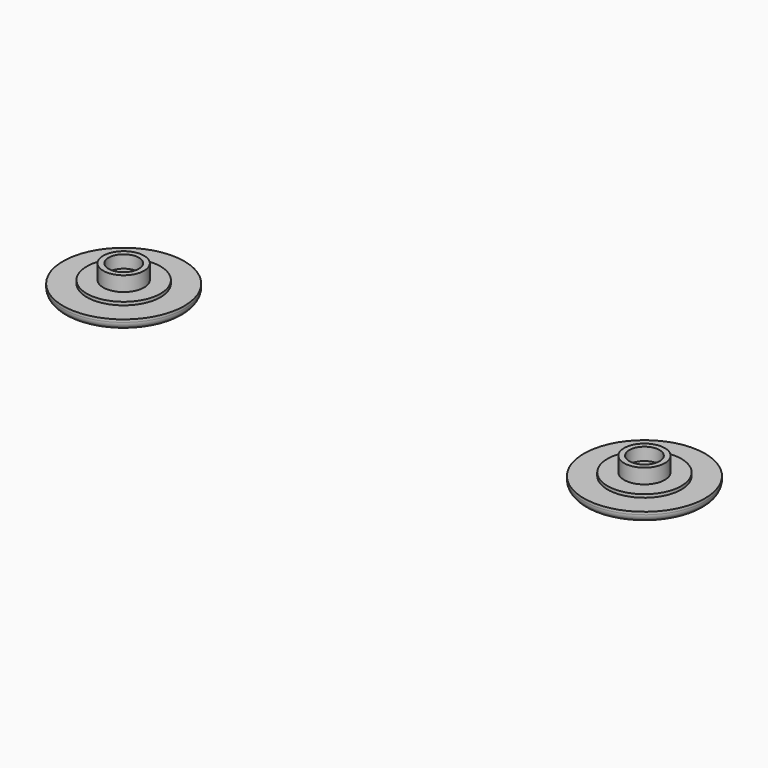
from build123d import *

# Parameters (mm, degrees)
F0_R     = 3.875
F1_DEPTH = 3.4
F0_R_2   = 7
F2_DEPTH = 0.6
F0_R_3   = 11.5
F3_DEPTH = 2
F4_T     = -1
F4_2_T   = -1
F5_R     = 1.5
F5_2_R   = 1.5


with BuildPart() as f1:
    # F0 (on Top) → F1 (new body)
    with BuildSketch(Plane.XY):
        with Locations((-49.4117662311, 0)):
            Circle(F0_R)
    extrude(amount=F1_DEPTH)

    # F4
    f4_openings = [f1.faces().sort_by_distance(p)[0] for p in [
        (-49.411766, 0, 3.4),
    ]]
    offset(amount=F4_T, openings=f4_openings)


with BuildPart() as f1b:
    # F0 (on Top) → F1, piece 2 (new body)
    with BuildSketch(Plane.XY):
        with Locations((49.4117662311, 0)):
            Circle(F0_R)
    extrude(amount=F1_DEPTH)

    # F4#2
    f4_2_openings = [f1b.faces().sort_by_distance(p)[0] for p in [
        (49.411766, 0, 3.4),
    ]]
    offset(amount=F4_2_T, openings=f4_2_openings)


with BuildPart() as f2:
    # F0 (on Top) → F2 (new body)
    with BuildSketch(Plane.XY):
        with Locations((-49.4117662311, 0)):
            Circle(F0_R_2)
        with Locations((-49.4117662311, 0)):
            Circle(F0_R, mode=Mode.SUBTRACT)
    extrude(amount=F2_DEPTH)


with BuildPart() as f2b:
    # F0 (on Top) → F2, piece 2 (new body)
    with BuildSketch(Plane.XY):
        with Locations((49.4117662311, 0)):
            Circle(F0_R_2)
        with Locations((49.4117662311, 0)):
            Circle(F0_R, mode=Mode.SUBTRACT)
    extrude(amount=F2_DEPTH)


with BuildPart() as f3:
    # F0 (on Top) → F3 (new body)
    with BuildSketch(Plane.XY):
        with Locations((-49.4117662311, 0)):
            Circle(F0_R_3)
        with Locations((-49.4117662311, 0)):
            Circle(F0_R_2, mode=Mode.SUBTRACT)
        with Locations((-49.4117662311, 0)):
            Circle(F0_R_2)
        with Locations((-49.4117662311, 0)):
            Circle(F0_R, mode=Mode.SUBTRACT)
        with Locations((-49.4117662311, 0)):
            Circle(F0_R)
    extrude(amount=-F3_DEPTH)

    # F5#2
    f5_2_edges = [f3.edges().sort_by_distance(p)[0] for p in [
        (-60.911766, 0, -2),
    ]]
    fillet(f5_2_edges, radius=F5_2_R)


with BuildPart() as f3b:
    # F0 (on Top) → F3, piece 2 (new body)
    with BuildSketch(Plane.XY):
        with Locations((49.4117662311, 0)):
            Circle(F0_R_3)
        with Locations((49.4117662311, 0)):
            Circle(F0_R_2, mode=Mode.SUBTRACT)
        with Locations((49.4117662311, 0)):
            Circle(F0_R_2)
        with Locations((49.4117662311, 0)):
            Circle(F0_R, mode=Mode.SUBTRACT)
        with Locations((49.4117662311, 0)):
            Circle(F0_R)
    extrude(amount=-F3_DEPTH)

    # F5
    f5_edges = [f3b.edges().sort_by_distance(p)[0] for p in [
        (37.911766, 0, -2),
    ]]
    fillet(f5_edges, radius=F5_R)


solid = Compound([f1.part, f1b.part, f2.part, f2b.part, f3.part, f3b.part])
